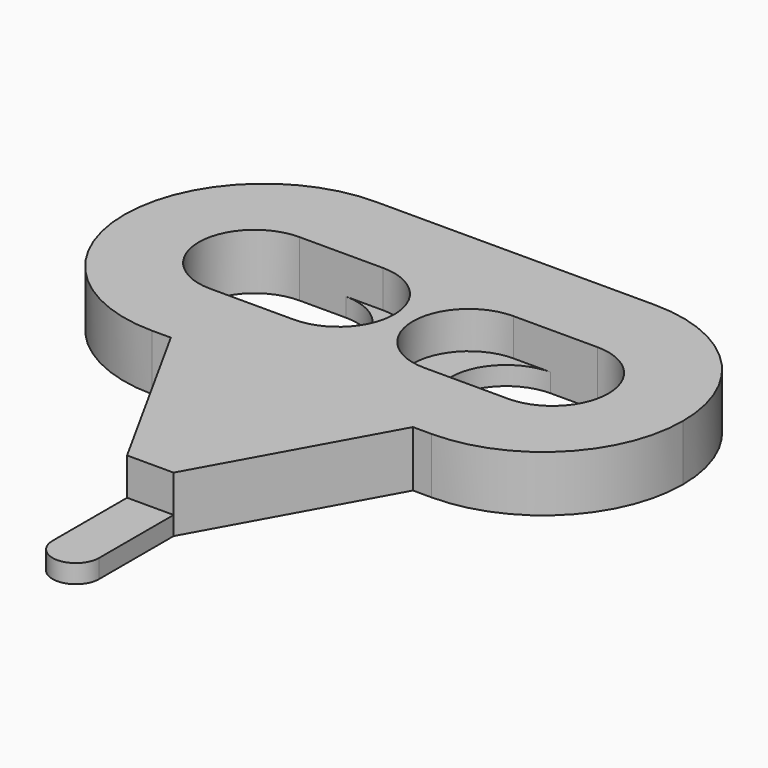
from build123d import *

# Parameters (mm, degrees)
PAD_DEPTH    = 1
PAD001_DEPTH = 2


with BuildPart() as part:
    # Sketch → Pad (new body)
    with BuildSketch(Plane.XY):
        with BuildLine():
            ThreePointArc((-7.5, 7.5), (-15, 0), (-7.5, -7.5))
            Line((-7.5, -7.5), (-6.5, -7.5))
            Line((-1.25, -17), (-6.5, -7.5))
            Line((-1.25, -22), (-1.25, -17))
            ThreePointArc((-1.25, -22), (0, -23.25), (1.25, -22))
            Line((1.25, -22), (1.25, -17))
            Line((1.25, -17), (6.5, -7.5))
            Line((6.5, -7.5), (7.5, -7.5))
            ThreePointArc((7.5, -7.5), (12.803301, -5.303301), (15, 0))
            ThreePointArc((15, 0), (12.803311, 5.303291), (7.500028, 7.5))
            Line((-7.5, 7.5), (7.500028, 7.5))
        make_face()
        with BuildLine():
            ThreePointArc((-8, 3), (-11, 0), (-8, -3))
            Line((-8, -3), (-5.5, -3))
            ThreePointArc((-5.5, -3), (-2.5, 0), (-5.5, 3))
            Line((-8, 3), (-5.5, 3))
        make_face(mode=Mode.SUBTRACT)
        with BuildLine():
            ThreePointArc((5.5, 3), (2.5, 0), (5.5, -3))
            Line((5.5, -3), (8, -3))
            ThreePointArc((8, -3), (11, 0), (8, 3))
            Line((5.5, 3), (8, 3))
        make_face(mode=Mode.SUBTRACT)
    extrude(amount=PAD_DEPTH)

    # Sketch001 (on Face21 of Pad) → Pad001 (join)
    with BuildSketch(Plane.XY.offset(1)):
        with BuildLine():
            ThreePointArc((-7.5, 7.5), (-15, 0), (-7.5, -7.5))
            Line((-7.5, -7.5), (-6.5, -7.5))
            Line((-1.25, -17), (-6.5, -7.5))
            Line((-1.25, -17), (1.25, -17))
            Line((1.25, -17), (6.5, -7.5))
            Line((6.5, -7.5), (7.5, -7.5))
            ThreePointArc((7.5, -7.5), (12.803301, -5.303301), (15, 0))
            ThreePointArc((15, 0), (12.803291, 5.303311), (7.499972, 7.5))
            Line((-7.5, 7.5), (7.499972, 7.5))
        make_face()
        with BuildLine():
            ThreePointArc((-8, 3), (-11, 0), (-8, -3))
            Line((-8, -3), (-3.5, -3))
            ThreePointArc((-3.5, -3), (-0.5, 0), (-3.5, 3))
            Line((-8, 3), (-3.5, 3))
        make_face(mode=Mode.SUBTRACT)
        with BuildLine():
            ThreePointArc((3.5, 3), (0.5, 0), (3.5, -3))
            Line((3.5, -3), (8, -3))
            ThreePointArc((8, -3), (11, 0), (8, 3))
            Line((3.5, 3), (8, 3))
        make_face(mode=Mode.SUBTRACT)
    extrude(amount=PAD001_DEPTH)


solid = part.part
